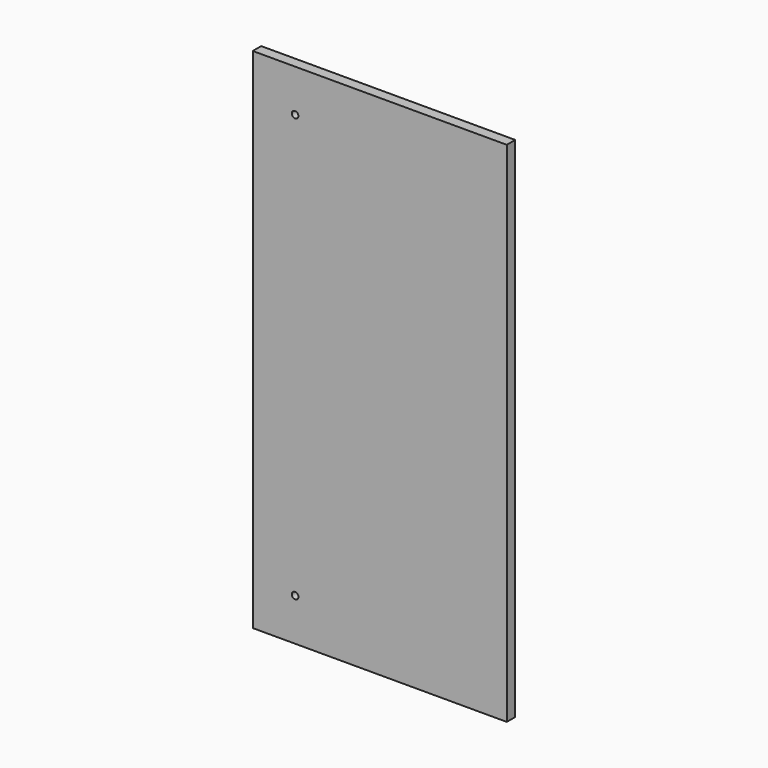
from build123d import *

# Parameters (mm, degrees)
F0_W     = 304.8
F0_H     = 609.6
F1_DEPTH = 12.7
F3_D     = 7.9375


with BuildPart() as f1:
    # F0 (on Front) → F1 (new body)
    with BuildSketch(Plane.XZ):
        with Locations((152.4, 304.8)):
            Rectangle(F0_W, F0_H)
    extrude(amount=-F1_DEPTH)

    # F3 (through all)
    with Locations(Plane.XZ):
        with Locations((50.8, 50.8), (50.8, 558.8)):
            Hole(F3_D / 2)


solid = f1.part
